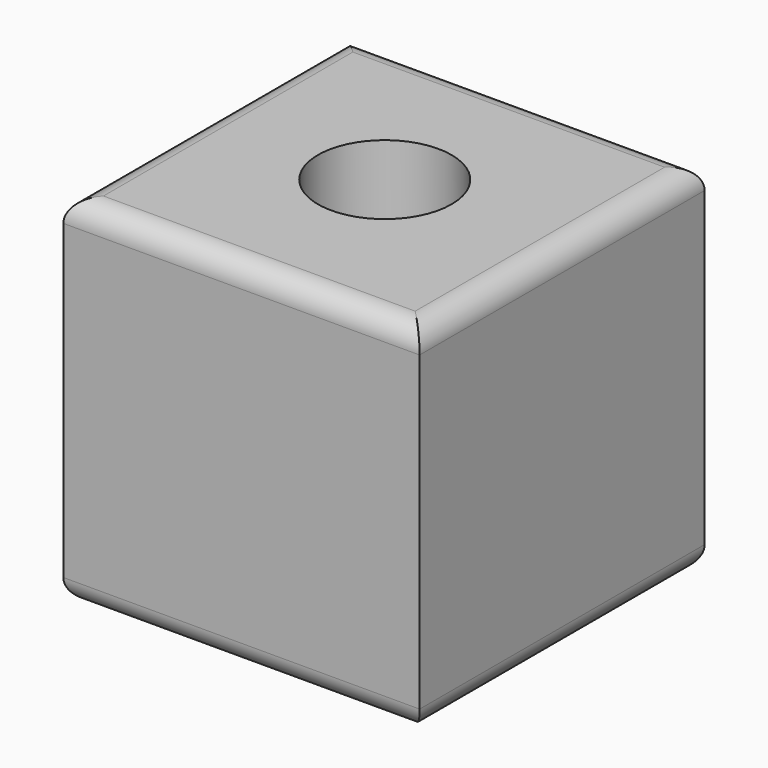
from build123d import *

# Parameters (mm, degrees)
F0_W     = 80
F0_H     = 80
F1_DEPTH = 80
F2_R     = 15
F3_DEPTH = 80.001
F4_R     = 5
F5_R     = 5


with BuildPart() as f1:
    # F0 (on Top) → F1 (new body)
    with BuildSketch(Plane.XY):
        with Locations((-14.930487, 14.1732)):
            Rectangle(F0_W, F0_H)
    extrude(amount=F1_DEPTH)

    # F2 (on face) → F3 (cut, through all)
    with BuildSketch(Plane.XY.offset(80)):
        with Locations((-15.300001, 14.85)):
            Circle(F2_R)
    extrude(amount=-F3_DEPTH, mode=Mode.SUBTRACT)

    # F4
    f4_edges = [f1.edges().sort_by_distance(p)[0] for p in [
        (-14.930487, -25.8268, 0),
        (-54.930487, 14.1732, 0),
        (25.069513, 14.1732, 0),
        (-14.930487, 54.1732, 0),
    ]]
    fillet(f4_edges, radius=F4_R)

    # F5
    f5_edges = [f1.edges().sort_by_distance(p)[0] for p in [
        (-14.930487, 54.1732, 80),
        (-54.930487, 14.1732, 80),
        (-14.930487, -25.8268, 80),
        (25.069513, 14.1732, 80),
    ]]
    fillet(f5_edges, radius=F5_R)


solid = f1.part
